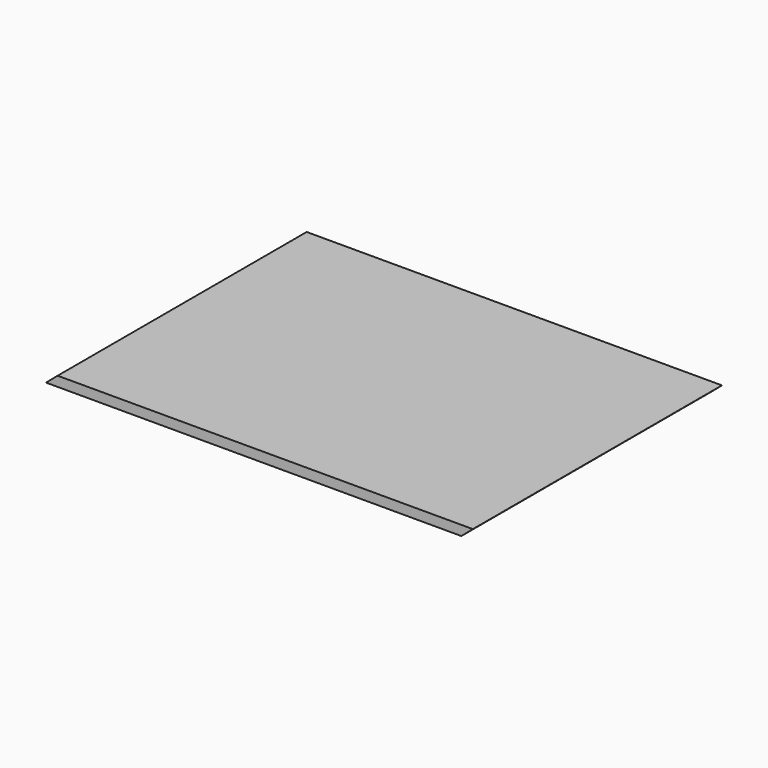
from build123d import *

# Parameters (mm, degrees)
PAD_DEPTH = 600


with BuildPart() as part:
    # Sketch → Pad (new body)
    with BuildSketch(Plane.XZ):
        Polygon((-411.308369, -9.5), (389.07641, -9.5), (411.308369, 9.5), (-389.07641, 9.5), align=None)
    extrude(amount=PAD_DEPTH)


solid = part.part
